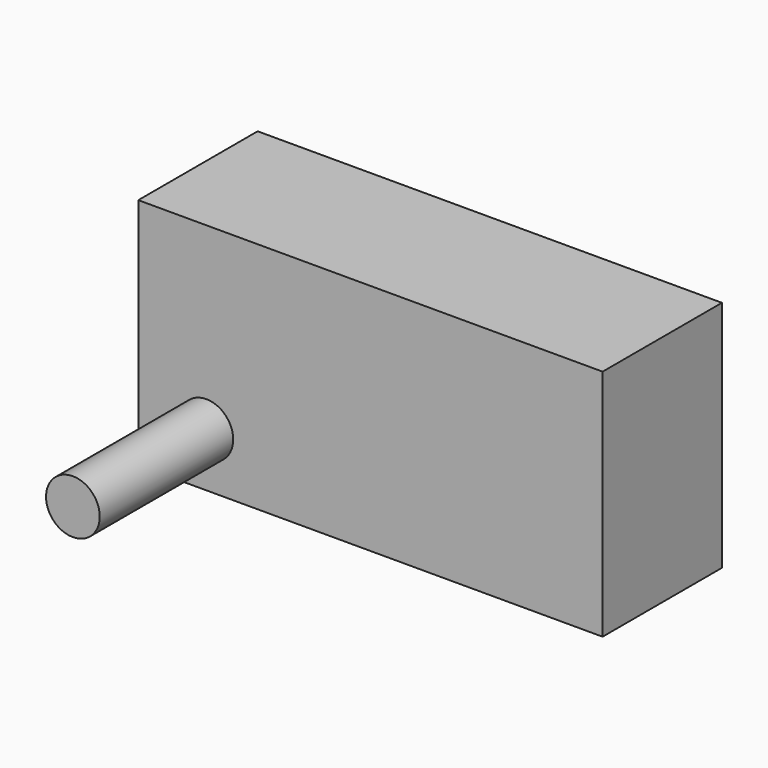
from build123d import *

# Parameters (mm, degrees)
F0_W     = 36.73077
F0_H     = 18.46154
F1_DEPTH = 11.8
F2_R     = 2.124108
F3_DEPTH = 25
F4_W     = 24.038464
F4_H     = 6.153846
F5_DEPTH = 4.6


with BuildPart() as f1:
    # F0 (on Front) → F1 (new body)
    with BuildSketch(Plane.XZ):
        with Locations((0.096153, 0.288462)):
            Rectangle(F0_W, F0_H)
    extrude(amount=F1_DEPTH)

    # F2 (on Front) → F3 (join)
    with BuildSketch(Plane.XZ):
        with Locations((-12.884616, -4.711539)):
            Circle(F2_R)
    extrude(amount=F3_DEPTH)

    # F4 (on Front) → F5 (cut)
    with BuildSketch(Plane.XZ):
        with Locations((-12.019232, -5.096154)):
            Rectangle(F4_W, F4_H)
    extrude(amount=F5_DEPTH, mode=Mode.SUBTRACT)


solid = f1.part
